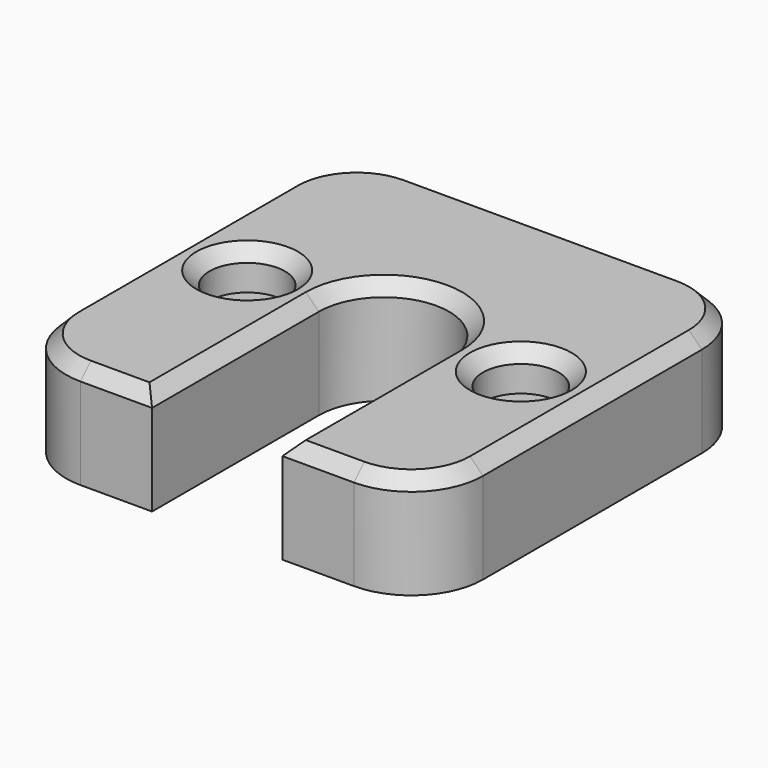
from build123d import *

# Parameters (mm, degrees)
SKETCH_R        = 5
SKETCH_R_2      = 1.5
PAD_DEPTH       = 8
SKETCH029_W     = 10
SKETCH029_H     = 16
POCKET_DEPTH    = 8.001
SKETCH030_R     = 2.9
POCKET016_DEPTH = 3
CHAMFER_SIZE    = 1


with BuildPart() as part:
    # Sketch → Pad (new body)
    with BuildSketch(Plane.XY):
        with BuildLine():
            Line((-10.5, 16), (10.5, 16))
            ThreePointArc((16, 10.5), (14.389087, 14.389087), (10.5, 16))
            Line((16, 10.5), (16, -10.5))
            ThreePointArc((10.5, -16), (14.389087, -14.389087), (16, -10.5))
            Line((10.5, -16), (-10.5, -16))
            ThreePointArc((-16, -10.5), (-14.389087, -14.389087), (-10.5, -16))
            Line((-16, -10.5), (-16, 10.5))
            ThreePointArc((-10.5, 16), (-14.389087, 14.389087), (-16, 10.5))
        make_face()
        Circle(SKETCH_R, mode=Mode.SUBTRACT)
        with Locations((-10.5, 0)):
            Circle(SKETCH_R_2, mode=Mode.SUBTRACT)
        with Locations((10.5, 0)):
            Circle(SKETCH_R_2, mode=Mode.SUBTRACT)
    extrude(amount=PAD_DEPTH)

    # Sketch029 (on Face13 of Pad) → Pocket (cut, through all)
    with BuildSketch(Plane.XY.offset(8)):
        with Locations((0, -8)):
            Rectangle(SKETCH029_W, SKETCH029_H)
    extrude(amount=-POCKET_DEPTH, mode=Mode.SUBTRACT)

    # Sketch030 (on Face5 of Pocket) → Pocket016 (cut)
    with BuildSketch(Plane.XY.offset(8)):
        with Locations((-10.5, 0)):
            Circle(SKETCH030_R)
        with Locations((10.5, 0)):
            Circle(SKETCH030_R)
    extrude(amount=-POCKET016_DEPTH, mode=Mode.SUBTRACT)

    # Chamfer
    chamfer_edges = [part.edges().sort_by_distance(p)[0] for p in [
        (-14.389087, -14.389087, 8),
        (-16, 0, 8),
        (-7.75, -16, 8),
        (-14.389087, 14.389087, 8),
        (-5, -8, 8),
        (0, 16, 8),
        (0, 5, 8),
        (14.389087, 14.389087, 8),
        (5, -8, 8),
        (16, 0, 8),
        (7.75, -16, 8),
        (14.389087, -14.389087, 8),
        (7.6, 0, 8),
        (-13.4, 0, 8),
    ]]
    chamfer(chamfer_edges, length=CHAMFER_SIZE)


with BuildPart() as part_1:
    # Body placement: moved
    add(part.part.moved(Location((0, 0, 22))))


solid = part_1.part
